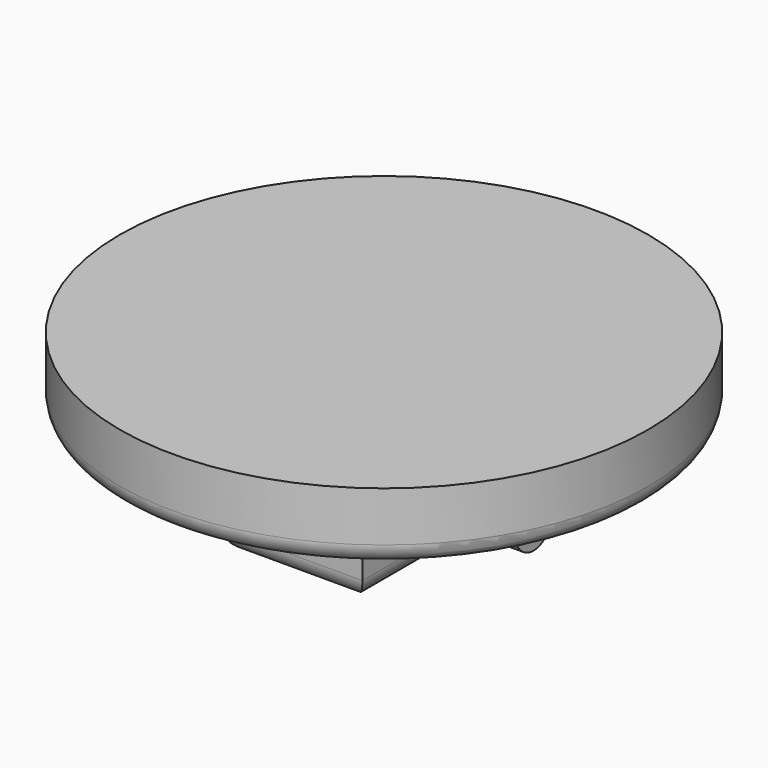
from build123d import *

# Parameters (mm, degrees)
F0_R     = 13.25
F1_DEPTH = 3.5
F2_W     = 6.9995252416
F2_H     = 11.4660244435
F3_DEPTH = 5
F4_R     = 1.115966898
F5_DEPTH = 7.5
F6_R     = 1
F7_R     = 1


with BuildPart() as f1:
    # F0 (on Top) → F1 (new body)
    with BuildSketch(Plane.XY):
        Circle(F0_R)
    extrude(amount=F1_DEPTH)

    # F2 (on face) → F3 (join)
    with BuildSketch(Plane(origin=(0, 0, 0), x_dir=(1, 0, 0), z_dir=(0, 0, -1))):
        Rectangle(F2_W, F2_H)
    extrude(amount=F3_DEPTH)

    # F4 (on Right) → F5 (join, symmetric)
    with BuildSketch(Plane.YZ):
        with Locations((0, -2.5976826437)):
            Circle(F4_R)
    extrude(amount=F5_DEPTH, both=True)

    # F6
    f6_edges = [f1.edges().sort_by_distance(p)[0] for p in [
        (-13.25, 0, 0),
    ]]
    fillet(f6_edges, radius=F6_R)

    # F7
    f7_edges = [f1.edges().sort_by_distance(p)[0] for p in [
        (0, 5.733012, -5),
        (3.499763, 0, -5),
        (0, -5.733012, -5),
        (-3.499763, 0, -5),
    ]]
    fillet(f7_edges, radius=F7_R)


solid = f1.part
